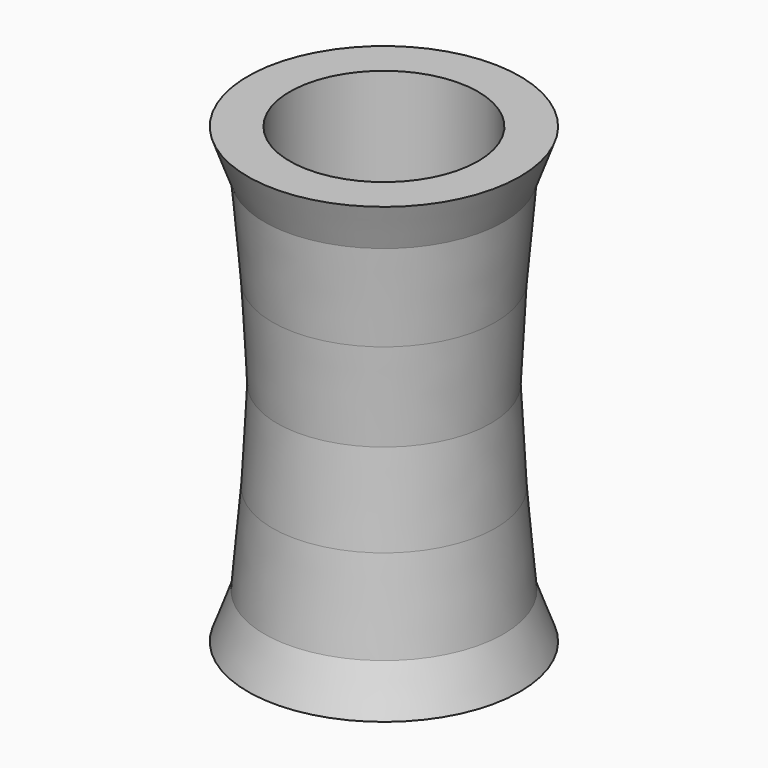
from build123d import *

# Parameters (mm, degrees)
F0_R      = 15
F1_DEPTH  = 5
F1_TAPER  = 20
F1_FACE_R = 13.1801488287
F2_DEPTH  = 10
F2_TAPER  = 5
F2_FACE_R = 12.3052621934
F3_DEPTH  = 10
F3_TAPER  = 3
F3_FACE_R = 11.7811844006
F4_DEPTH  = 10
F4_TAPER  = -3
F4_FACE_R = 12.3052621934
F5_DEPTH  = 10
F5_TAPER  = -5
F5_FACE_R = 13.1801488287
F6_DEPTH  = 5
F6_TAPER  = -20
F7_R      = 10.38
F8_DEPTH  = 47


with BuildPart() as f1:
    # F0 (on Top) → F1 (new body)
    with BuildSketch(Plane.XY):
        Circle(F0_R)
    extrude(amount=F1_DEPTH, taper=F1_TAPER)

    # F1_face (on face) → F2 (join)
    with BuildSketch(Plane.XY.offset(5)):
        Circle(F1_FACE_R)
    extrude(amount=F2_DEPTH, taper=F2_TAPER)

    # F2_face (on face) → F3 (join)
    with BuildSketch(Plane.XY.offset(15)):
        Circle(F2_FACE_R)
    extrude(amount=F3_DEPTH, taper=F3_TAPER)

    # F3_face (on face) → F4 (join)
    with BuildSketch(Plane.XY.offset(25)):
        Circle(F3_FACE_R)
    extrude(amount=F4_DEPTH, taper=F4_TAPER)

    # F4_face (on face) → F5 (join)
    with BuildSketch(Plane.XY.offset(35)):
        Circle(F4_FACE_R)
    extrude(amount=F5_DEPTH, taper=F5_TAPER)

    # F5_face (on face) → F6 (join)
    with BuildSketch(Plane.XY.offset(45)):
        Circle(F5_FACE_R)
    extrude(amount=F6_DEPTH, taper=F6_TAPER)

    # F7 (on face) → F8 (cut)
    with BuildSketch(Plane.XY.offset(50)):
        Circle(F7_R)
    extrude(amount=-F8_DEPTH, mode=Mode.SUBTRACT)


solid = f1.part
